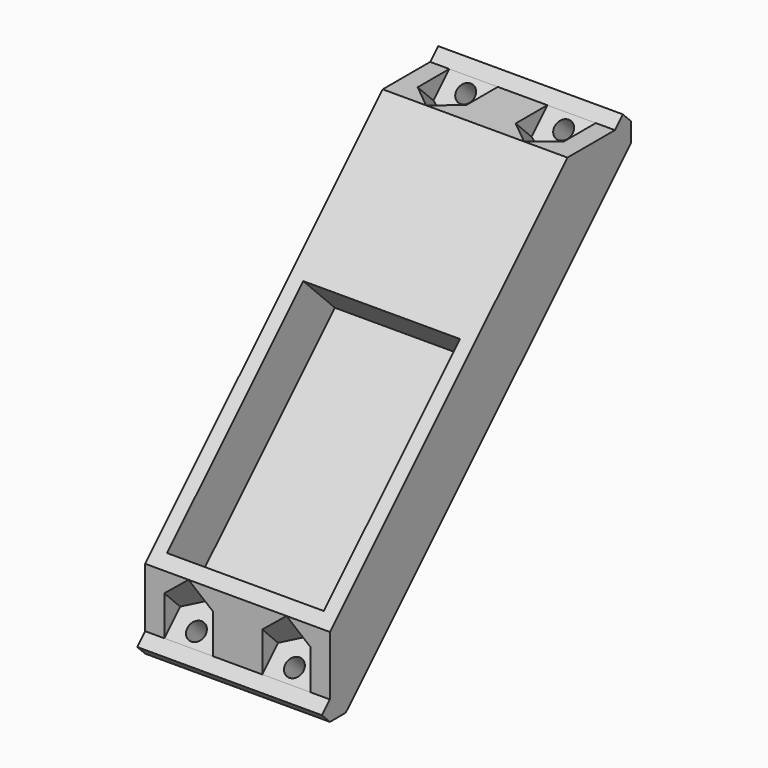
from build123d import *

# Parameters (mm, degrees)
PAD_DEPTH            = 33
SKETCH001_W          = 56
SKETCH001_H          = 86
POCKET_DEPTH         = 100.001
SKETCH003_R          = 3.25
POCKET001_DEPTH      = 95.001
POCKET001_DEPTH_BACK = 100.001
POCKET002_DEPTH      = 95.001


with BuildPart() as part:
    # Sketch002 → Pad (new body, symmetric)
    with BuildSketch(Plane.YZ):
        Polygon((-14.1421356237, 14.1421356237), (91.9238815543, 120.2081528017), (113.1370849898, 120.2081528017), (116.6726188958, 123.7436867076), (120.2081528017, 120.2081528017), (120.2081528017, 113.1370849898), (-7.0710678119, -14.1421356237), (-14.1421356237, -14.1421356237), (-17.6776695297, -10.6066017178), (-14.1421356237, -7.0710678119), align=None)
    extrude(amount=PAD_DEPTH, both=True)

    # Sketch001 (on DatumPlane) → Pocket (cut, through all)
    with BuildSketch(Plane(origin=(0, 0, 0), x_dir=(1, 0, 0), z_dir=(0, -0.7071067812, 0.7071067812))):
        with Locations((0, 48)):
            Rectangle(SKETCH001_W, SKETCH001_H)
    extrude(amount=POCKET_DEPTH, mode=Mode.SUBTRACT)

    # Sketch003 (on DatumPlane) → Pocket001 (cut, two sides)
    with BuildSketch(Plane(origin=(0, 0, 0), x_dir=(1, 0, 0), z_dir=(0, -0.7071067812, 0.7071067812))) as pocket001_sk:
        with Locations((-17.5, 160)):
            Circle(SKETCH003_R)
        with Locations((17.5, 160)):
            Circle(SKETCH003_R)
        with Locations((-17.5, -10)):
            Circle(SKETCH003_R)
        with Locations((17.5, -10)):
            Circle(SKETCH003_R)
    extrude(amount=-POCKET001_DEPTH, mode=Mode.SUBTRACT)
    extrude(pocket001_sk.sketch, amount=POCKET001_DEPTH_BACK, mode=Mode.SUBTRACT)

    # Sketch004 (on DatumPlane) → Pocket002 (cut, through all)
    with BuildSketch(Plane(origin=(0, -3.5355339059, 3.5355339059), x_dir=(1, 0, 0), z_dir=(0, -0.7071067812, 0.7071067812))):
        Polygon((-17.5, 170), (-26.1602540378, 165), (-26.1602540378, 155), (-17.5, 150), (-8.8397459622, 155), (-8.8397459622, 165), align=None)
        Polygon((17.5, 170), (8.8397459622, 165), (8.8397459622, 155), (17.5, 150), (26.1602540378, 155), (26.1602540378, 165), align=None)
        Polygon((17.5, 0), (8.8397459622, -5), (8.8397459622, -15), (17.5, -20), (26.1602540378, -15), (26.1602540378, -5), align=None)
        Polygon((-17.5, 0), (-26.1602540378, -5), (-26.1602540378, -15), (-17.5, -20), (-8.8397459622, -15), (-8.8397459622, -5), align=None)
    extrude(amount=POCKET002_DEPTH, mode=Mode.SUBTRACT)


solid = part.part
